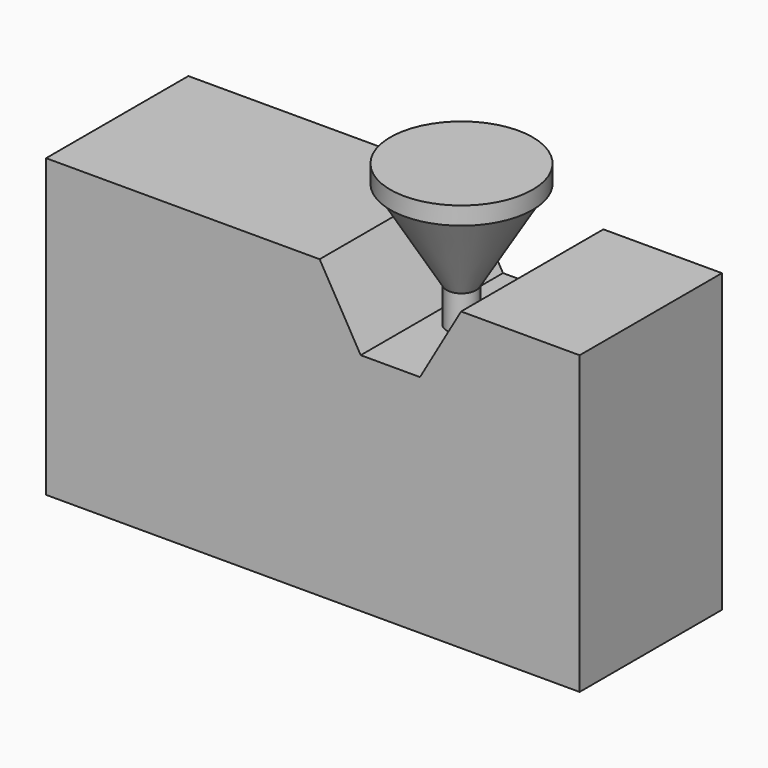
from build123d import *

# Parameters (mm, degrees)
F1_DEPTH = 15
F0_W     = 2.5
F0_H     = 6


with BuildPart() as f1:
    # F0 (on Front) → F1 (new body, symmetric)
    with BuildSketch(Plane.XZ):
        Polygon((-43.856406, 50), (-90, 50), (-90, 0), (0, 0), (0, 50), (-20, 50), (-26.928203, 38), (-29.428203, 38), (-31.928203, 38), (-36.928203, 38), align=None)
    extrude(amount=F1_DEPTH, both=True)

    # F0 (on Front) → F2 (revolve)
    with BuildSketch(Plane.XZ):
        with Locations((-30.678203, 41)):
            Rectangle(F0_W, F0_H)
        Polygon((-31.928203, 59), (-31.928203, 44), (-29.428203, 44), (-20.428203, 59), align=None)
        Polygon((-31.928203, 62), (-31.928203, 59), (-20.428203, 59), (-19.928203, 59), (-19.928203, 62), align=None)
    revolve(axis=Axis((-31.928203, 0, 41), (0, 0, 1)))


solid = f1.part
